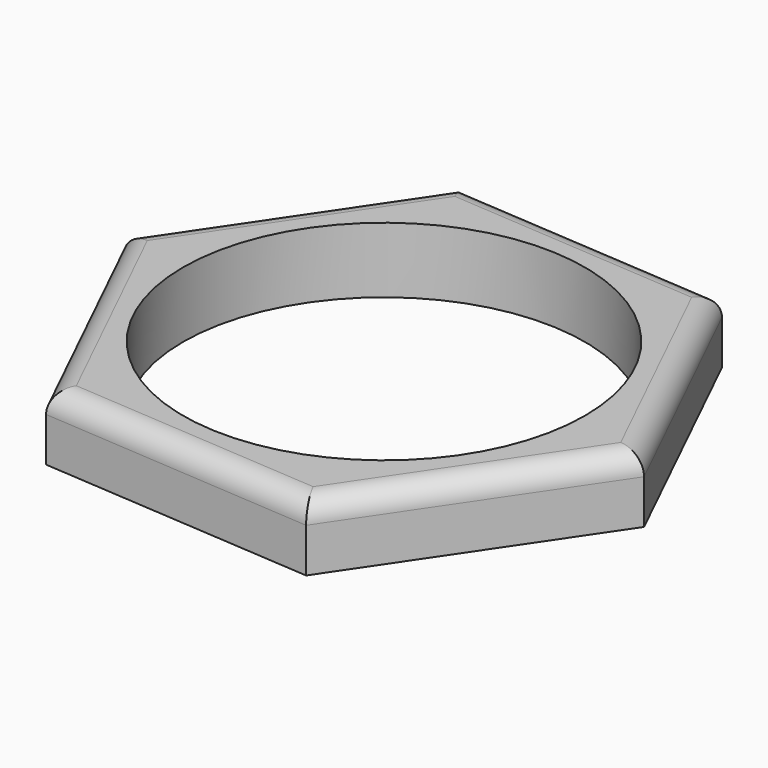
from build123d import *

# Parameters (mm, degrees)
F0_R     = 4.7625
F1_DEPTH = 1.55575
F2_R     = 0.508


with BuildPart() as f1:
    # F0 (on Top) → F1 (new body)
    with BuildSketch(Plane.XY):
        Polygon((2.866094, -5.889792), (6.533757, -0.462785), (3.667662, 5.427006), (-2.866094, 5.889792), (-6.533757, 0.462785), (-3.667662, -5.427006), align=None)
        Circle(F0_R, mode=Mode.SUBTRACT)
    extrude(amount=F1_DEPTH)

    # F2
    f2_edges = [f1.edges().sort_by_distance(p)[0] for p in [
        (-5.100709, -2.48211, 1.55575),
        (-0.400784, -5.658399, 1.55575),
        (4.699925, -3.176289, 1.55575),
        (5.100709, 2.48211, 1.55575),
        (0.400784, 5.658399, 1.55575),
        (-4.699925, 3.176289, 1.55575),
    ]]
    fillet(f2_edges, radius=F2_R)


solid = f1.part
